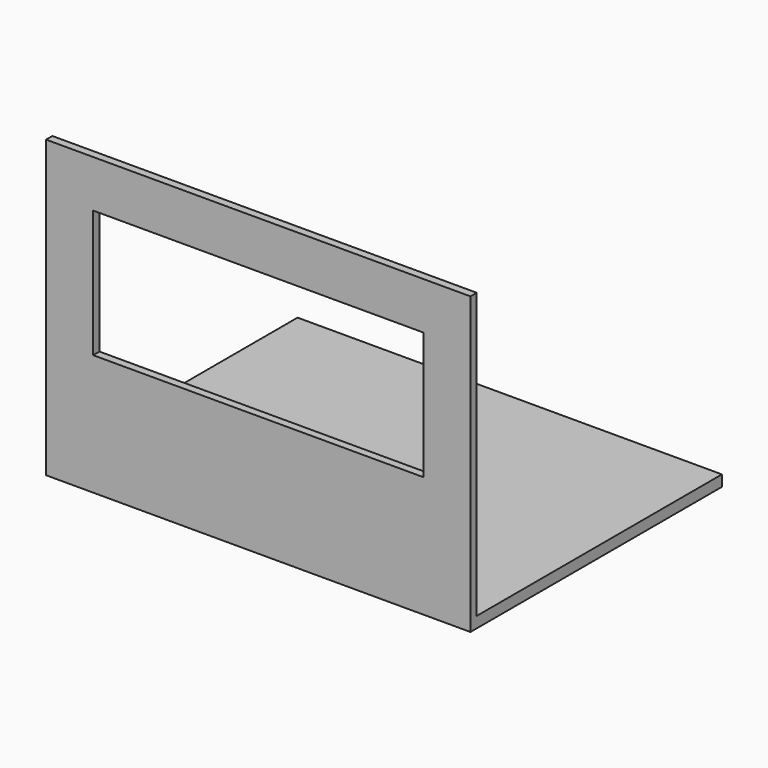
from build123d import *

# Parameters (mm, degrees)
F0_W     = 270
F0_H     = 181
F0_W_2   = 210
F0_H_2   = 81
F1_DEPTH = 5
F0_H_3   = 7
F2_DEPTH = 200


with BuildPart() as f1:
    # F0 (on Front) → F1 (new body)
    with BuildSketch(Plane.XZ):
        with Locations((105, 20.5)):
            Rectangle(F0_W, F0_H)
        with Locations((105, 40.5)):
            Rectangle(F0_W_2, F0_H_2, mode=Mode.SUBTRACT)
    extrude(amount=-F1_DEPTH)

    # F0 (on Front) → F2 (join)
    with BuildSketch(Plane.XZ):
        with Locations((105, -73.5)):
            Rectangle(F0_W, F0_H_3)
    extrude(amount=-F2_DEPTH)


solid = f1.part
